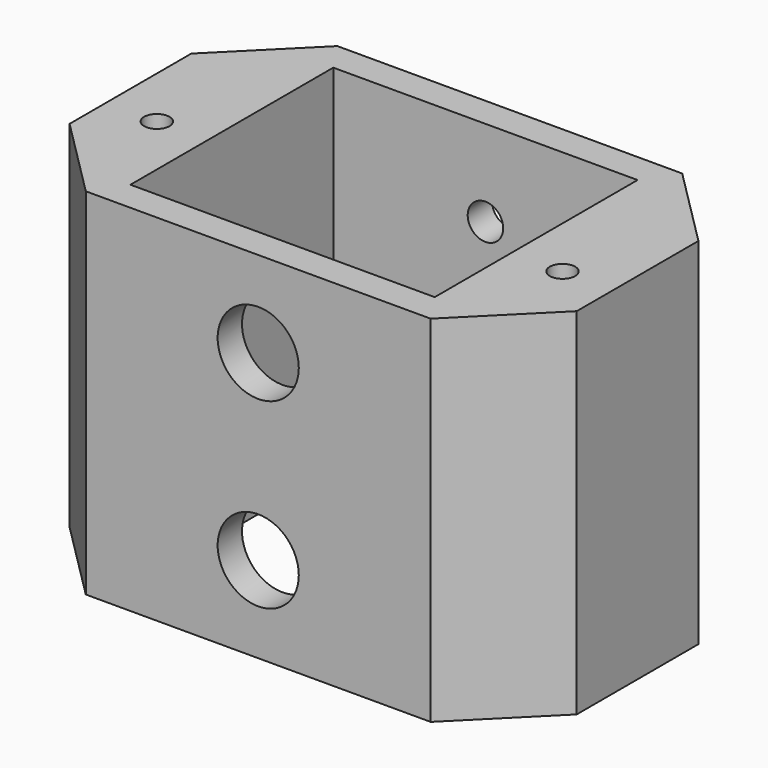
from build123d import *

# Parameters (mm, degrees)
F0_W           = 50
F0_H           = 31
F0_W_2         = 30
F0_H_2         = 25
F1_DEPTH       = 35
F3_D           = 3.5
F3_CBORE_D     = 8
F3_CBORE_DEPTH = 5
F5_D           = 2.5
F6_SIZE        = 8


with BuildPart() as f1:
    # F0 (on Top) → F1 (new body)
    with BuildSketch(Plane.XY):
        Rectangle(F0_W, F0_H)
        Rectangle(F0_W_2, F0_H_2, mode=Mode.SUBTRACT)
    extrude(amount=F1_DEPTH)

    # F3 (through all)
    with Locations(Plane.XZ.offset(15.5)):
        with Locations((0, 26.5), (0, 8.5)):
            CounterBoreHole(F3_D / 2, F3_CBORE_D / 2, F3_CBORE_DEPTH)

    # F5 (through all)
    with Locations(Plane(origin=(0, 0, 0), x_dir=(1, 0, 0), z_dir=(0, 0, -1))):
        with Locations((-20, 3), (20, 3)):
            Hole(F5_D / 2)

    # F6
    f6_edges = [f1.edges().sort_by_distance(p)[0] for p in [
        (25, -15.5, 17.5),
        (-25, -15.5, 17.5),
        (-25, 15.5, 17.5),
        (25, 15.5, 17.5),
    ]]
    chamfer(f6_edges, length=F6_SIZE)


solid = f1.part
